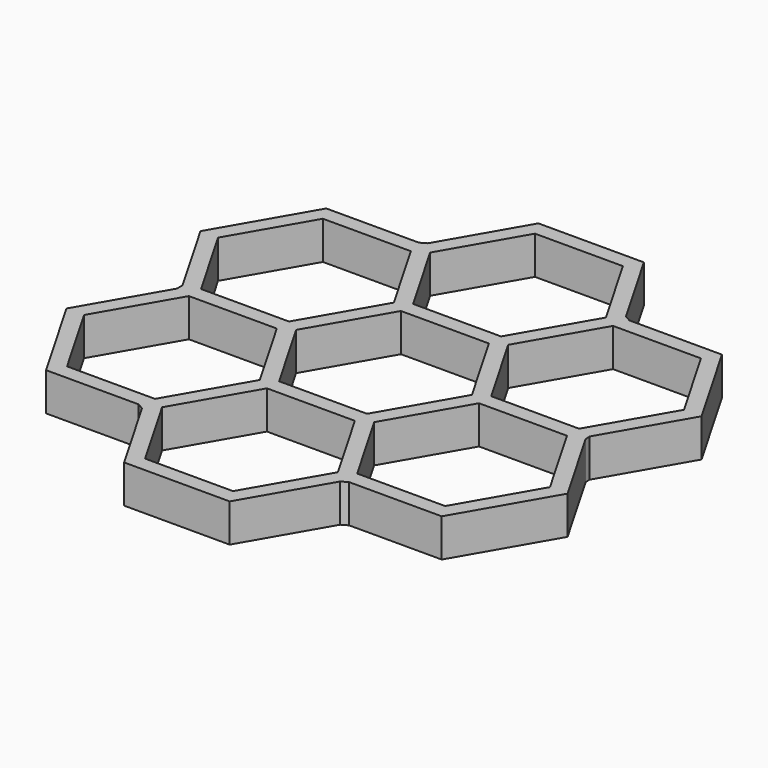
from build123d import *

# Parameters (mm, degrees)
F1_DEPTH = 6.35


with BuildPart() as f1:
    # F0 (on Top) → F1 (new body)
    with BuildSketch(Plane.XY):
        Polygon((31.529098, 26.67), (16.864401, 26.67), (9.532053, 13.97), (16.864401, 1.27), (31.342068, 1.27), (31.529098, 1.27), (38.861447, 13.97), align=None)
        Polygon((41.794386, 13.97), (32.995568, 29.21), (17.544992, 29.21), (16.524106, 29.799409), (8.798818, 43.18), (-8.798818, 43.18), (-16.524106, 29.799409), (-17.544992, 29.21), (-32.995568, 29.21), (-41.794386, 13.97), (-34.069098, 0.589409), (-34.069098, -0.589409), (-41.794386, -13.97), (-32.995568, -29.21), (-17.544992, -29.21), (-16.524106, -29.799409), (-8.798818, -43.18), (8.798818, -43.18), (16.524106, -29.799409), (17.544992, -29.21), (32.995568, -29.21), (41.794386, -13.97), (34.01954, -0.503571), (33.953768, 0.389652), align=None)
        Polygon((7.332348, -15.24), (14.664697, -27.94), (7.332348, -40.64), (-7.332348, -40.64), (-14.664697, -27.94), (-7.332348, -15.24), align=None, mode=Mode.SUBTRACT)
        Polygon((-9.532053, -13.97), (-16.864401, -26.67), (-31.529098, -26.67), (-38.861447, -13.97), (-31.529098, -1.27), (-16.864401, -1.27), align=None, mode=Mode.SUBTRACT)
        Polygon((16.864401, -1.27), (31.529098, -1.27), (38.861447, -13.97), (31.529098, -26.67), (16.864401, -26.67), (9.532053, -13.97), align=None, mode=Mode.SUBTRACT)
        Polygon((-16.864401, 1.27), (-31.529098, 1.27), (-38.861447, 13.97), (-31.529098, 26.67), (-16.864401, 26.67), (-9.532053, 13.97), align=None, mode=Mode.SUBTRACT)
        Polygon((14.664697, 0), (7.332348, -12.7), (-7.332348, -12.7), (-14.664697, 0), (-7.332348, 12.7), (7.332348, 12.7), align=None, mode=Mode.SUBTRACT)
        Polygon((9.532053, 13.97), (16.864401, 26.67), (31.529098, 26.67), (38.861447, 13.97), (31.529098, 1.27), (31.342068, 1.27), (16.864401, 1.27), align=None, mode=Mode.SUBTRACT)
        Polygon((14.664697, 27.94), (7.332348, 15.24), (-7.332348, 15.24), (-14.664697, 27.94), (-7.332348, 40.64), (7.332348, 40.64), align=None, mode=Mode.SUBTRACT)
    extrude(amount=F1_DEPTH)


solid = f1.part
